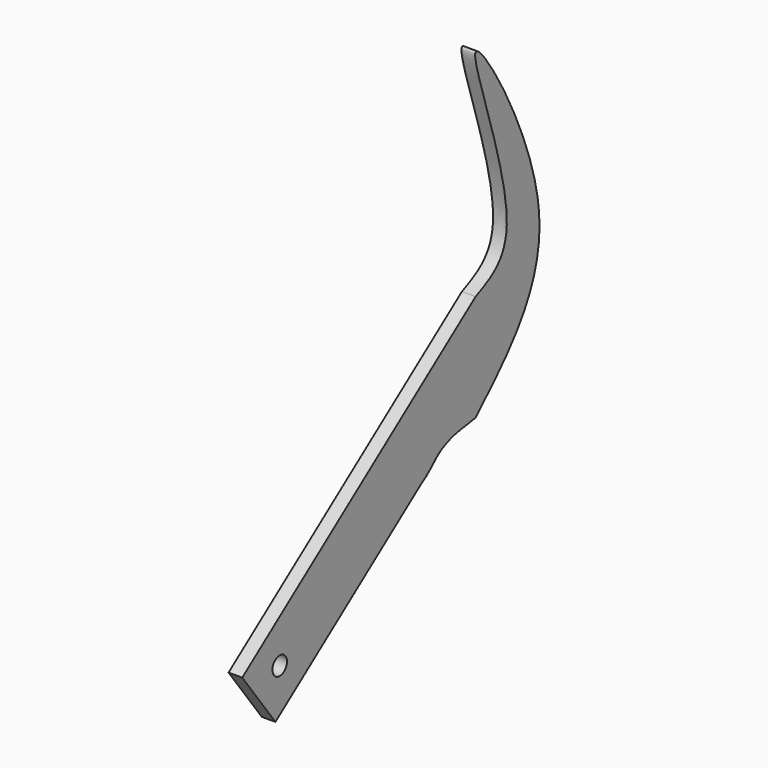
from build123d import *

# Parameters (mm, degrees)
F0_R     = 3.3274
F1_DEPTH = 5


with BuildPart() as f1:
    # F0 (on Right) → F1 (new body)
    with BuildSketch(Plane.YZ):
        with BuildLine():
            Line((0, -17.0114710927), (0, -55.8948367834))
            add(Edge.make_bspline(
                [(0, -55.8948367834), (15.8676044293, -40.7242866382), (48.2258486977, -9.7875205076), (-20.2005839998, 100.745458921), (25.2879272635, -5.658414522), (6.857558871, -13.9327587495), (0, -17.0114710927)],
                knots=[0, 0, 0, 0, 0.2751046184, 0.5610111143, 0.8366613155, 1, 1, 1, 1], degree=3))
        make_face()
        with BuildLine():
            add(Edge.make_bspline(
                [(-24.8829659086, -67.158618414), (-21.139758301, -65.0798172165), (-17.9289662497, -60.2184241216), (-8.3867489622, -56.7510871512), (-1.8970250752, -56.3912603307), (0, -55.8948367834)],
                knots=[0, 0, 0, 0, 0.3473740672, 0.687998818, 1, 1, 1, 1], degree=3))
            Line((0, -55.8948367834), (0, -17.0114710927))
            Line((0, -17.0114710927), (-106.4316853881, -96.1313247681))
            Line((-106.4316853881, -96.1313247681), (-91.2781061477, -116.515854103))
            Line((-91.2781061477, -116.515854103), (-24.8829659086, -67.158618414))
        make_face()
        with Locations((-89.3315062883, -99.2440324467)):
            Circle(F0_R, mode=Mode.SUBTRACT)
    extrude(amount=F1_DEPTH)


solid = f1.part
